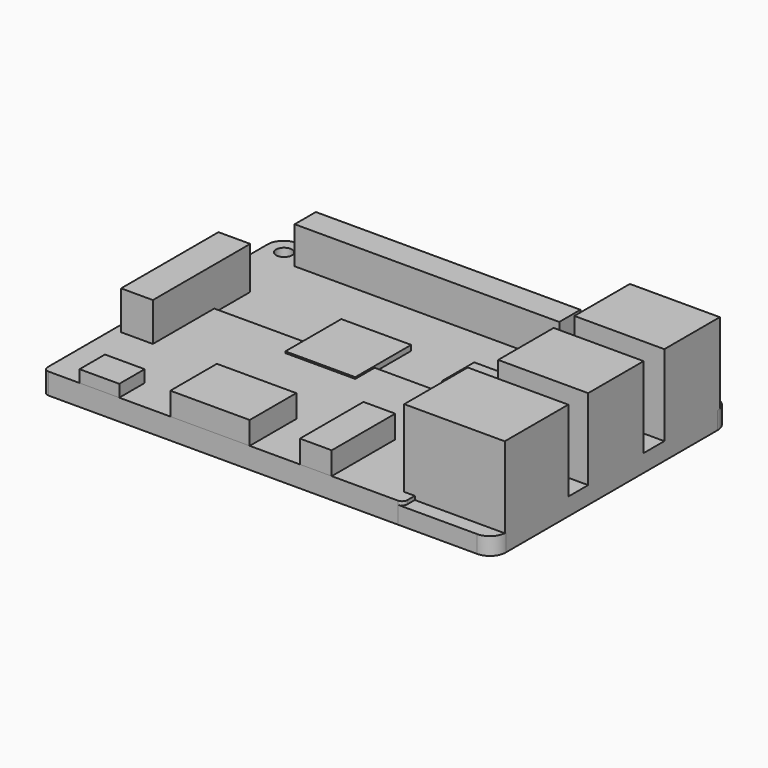
from build123d import *

# Parameters (mm, degrees)
F0_W      = 85
F0_H      = 56
F0_R      = 1.5
F1_DEPTH  = 3.3
F2_R      = 3
F3_W      = 50
F3_H      = 5
F4_DEPTH  = 7
F5_W      = 6
F5_H      = 23
F6_DEPTH  = 8
F7_W      = 17
F7_H      = 13.1
F7_W_2    = 19
F7_H_2    = 15
F8_DEPTH  = 15.3
F9_W      = 15
F9_H      = 11
F10_DEPTH = 5
F11_W     = 7.5
F11_H     = 6
F12_DEPTH = 3
F13_W     = 6
F13_H     = 15
F14_DEPTH = 5
F15_W     = 13.20453
F15_H     = 13.20453
F15_W_2   = 7.676441
F15_H_2   = 7.676441
F16_DEPTH = 1
F17_W     = 68
F17_H     = 31
F18_DEPTH = 4
F19_R     = 1


with BuildPart() as f1:
    # F0 (on Top) → F1 (new body)
    with BuildSketch(Plane.XY):
        with Locations((42.5, 28)):
            Rectangle(F0_W, F0_H)
        with Locations((3.5, 3.5)):
            Circle(F0_R, mode=Mode.SUBTRACT)
        with Locations((61.5, 3.5)):
            Circle(F0_R, mode=Mode.SUBTRACT)
        with Locations((3.5, 52.5)):
            Circle(F0_R, mode=Mode.SUBTRACT)
        with Locations((61.5, 52.5)):
            Circle(F0_R, mode=Mode.SUBTRACT)
    extrude(amount=F1_DEPTH)

    # F2
    f2_edges = [f1.edges().sort_by_distance(p)[0] for p in [
        (0, 56, 1.65),
        (85, 56, 1.65),
        (0, 0, 1.65),
        (85, 0, 1.65),
    ]]
    fillet(f2_edges, radius=F2_R)

    # F3 (on face) → F4 (join)
    with BuildSketch(Plane.XY.offset(3.3)):
        with Locations((32.5, 52.5)):
            Rectangle(F3_W, F3_H)
    extrude(amount=F4_DEPTH)

    # F5 (on face) → F6 (join)
    with BuildSketch(Plane.XY.offset(3.3)):
        with Locations((4.5, 28)):
            Rectangle(F5_W, F5_H)
    extrude(amount=F6_DEPTH)

    # F7 (on face) → F8 (join)
    with BuildSketch(Plane.XY.offset(3.3)):
        with Locations((76.5, 47)):
            Rectangle(F7_W, F7_H)
        with Locations((76.5, 29)):
            Rectangle(F7_W, F7_H)
        with Locations((75.5, 10.25)):
            Rectangle(F7_W_2, F7_H_2)
    extrude(amount=F8_DEPTH)

    # F9 (on face) → F10 (join)
    with BuildSketch(Plane.XY.offset(3.3)):
        with Locations((31.5, 5.5)):
            Rectangle(F9_W, F9_H)
    extrude(amount=F10_DEPTH)

    # F11 (on face) → F12 (join)
    with BuildSketch(Plane.XY.offset(3.3)):
        with Locations((10.6, 3)):
            Rectangle(F11_W, F11_H)
    extrude(amount=F12_DEPTH)

    # F13 (on face) → F14 (join)
    with BuildSketch(Plane.XY.offset(3.3)):
        with Locations((51.5, 7.5)):
            Rectangle(F13_W, F13_H)
    extrude(amount=F14_DEPTH)

    # F15 (on face) → F16 (join)
    with BuildSketch(Plane.XY.offset(3.3)):
        with Locations((31.205079, 33.029746)):
            Rectangle(F15_W, F15_H)
        with Locations((52.406295, 37.249581)):
            Rectangle(F15_W_2, F15_H_2)
    extrude(amount=F16_DEPTH)


with BuildPart() as f18:
    # F17 (on Top) → F18 (new body)
    with BuildSketch(Plane.XY):
        with Locations((34, 15.5)):
            Rectangle(F17_W, F17_H)
    extrude(amount=F18_DEPTH)

    # F19
    f19_edges = [f18.edges().sort_by_distance(p)[0] for p in [
        (68, 0, 2),
        (68, 31, 2),
        (0, 0, 2),
        (0, 31, 2),
    ]]
    fillet(f19_edges, radius=F19_R)


solid = Compound([f1.part, f18.part])
